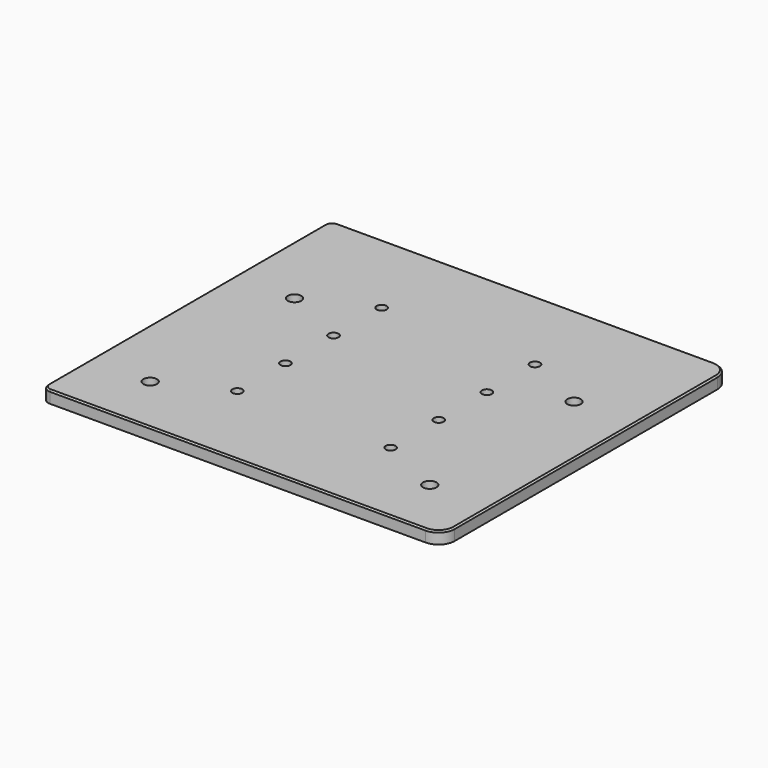
from build123d import *

# Parameters (mm, degrees)
F1_DEPTH = 8
F2_SIZE  = 1
F3_D     = 6.6
F4_D     = 9
F5_D     = 3.3
F5_DEPTH = 4.35
F5_TIP   = 0.9914200214


with BuildPart() as f1:
    # F0 (on Top) → F1 (new body)
    with BuildSketch(Plane.XY):
        with BuildLine():
            Line((-127.7485371086, -120), (122.231243908, -120))
            ThreePointArc((122.231243908, -120), (129.8459043656, -116.8459043656), (133, -109.231243908))
            Line((133, -109.231243908), (133, 109.231243908))
            ThreePointArc((133, 109.231243908), (129.8459043656, 116.8459043656), (122.231243908, 120))
            Line((122.231243908, 120), (-127.7485371086, 120))
            ThreePointArc((-127.7485371086, 120), (-131.4618821303, 118.4618821303), (-133, 114.7485371086))
            Line((-133, 114.7485371086), (-133, -114.7485371086))
            ThreePointArc((-133, -114.7485371086), (-131.4618821303, -118.4618821303), (-127.7485371086, -120))
        make_face()
    extrude(amount=F1_DEPTH)

    # F2
    f2_edges = [f1.edges().sort_by_distance(p)[0] for p in [
        (-2.758647, -120, 8),
        (129.845904, -116.845904, 8),
        (133, 0, 8),
        (129.845904, 116.845904, 8),
        (-2.758647, 120, 8),
        (-131.461882, 118.461882, 8),
        (-133, 0, 8),
        (-131.461882, -118.461882, 8),
    ]]
    chamfer(f2_edges, length=F2_SIZE)

    # F3 (through all)
    with Locations(Plane(origin=(0, 0, 0), x_dir=(1, 0, 0), z_dir=(0, 0, -1))):
        with Locations((-51, 60), (-51, 20), (-51, -20), (-51, -60), (51, -60), (51, -20), (51, 20), (51, 60)):
            Hole(F3_D / 2)

    # F4 (through all)
    with Locations(Plane(origin=(0, 0, 0), x_dir=(1, 0, 0), z_dir=(0, 0, -1))):
        with Locations((-93, 80), (-93, -40), (93, -40), (93, 80)):
            Hole(F4_D / 2)

    # F5
    with Locations(Plane(origin=(0, 0, 0), x_dir=(1, 0, 0), z_dir=(0, 0, -1))):
        with Locations((-92.5, 88), (-92.5, 106.5), (92.5, 88), (92.5, 106.5), (92.5, -88), (92.5, -106.5), (-92.5, -88), (-92.5, -106.5)):
            Hole(F5_D / 2, depth=F5_DEPTH)
            with Locations((0, 0, -(F5_DEPTH + F5_TIP / 2))):  # 118° drill point
                Cone(0, F5_D / 2, F5_TIP, mode=Mode.SUBTRACT)


solid = f1.part
